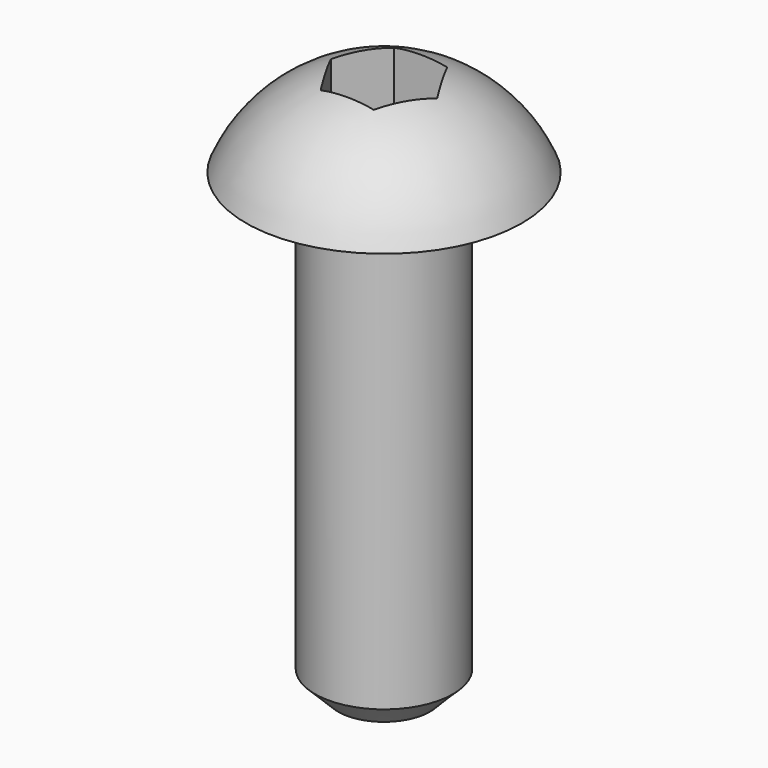
from build123d import *

# Parameters (mm, degrees)
F2_SIZE  = 0.5
F5_DEPTH = 1.5


with BuildPart() as f1:
    # F0 (on Front) → F1 (revolve)
    with BuildSketch(Plane.XZ):
        with BuildLine():
            Line((0, 12), (0, 0))
            Line((0, 0), (1.5, 0))
            Line((1.5, 0), (1.5, 10))
            Line((1.5, 10), (3, 10))
            ThreePointArc((3, 10), (1.802776, 11.454163), (0, 12))
        make_face()
    revolve(axis=Axis((0, 0, 6), (0, 0, 1)))

    # F2
    f2_edges = [f1.edges().sort_by_distance(p)[0] for p in [
        (-1.5, 0, 0),
    ]]
    chamfer(f2_edges, length=F2_SIZE)

    # F4 (on offset) → F5 (cut)
    with BuildSketch(Plane.XY.offset(12)):
        Polygon((0.57735, 1), (-0.57735, 1), (-1.154701, 0), (-0.57735, -1), (0.57735, -1), (1.154701, 0), align=None)
    extrude(amount=-F5_DEPTH, mode=Mode.SUBTRACT)


solid = f1.part
